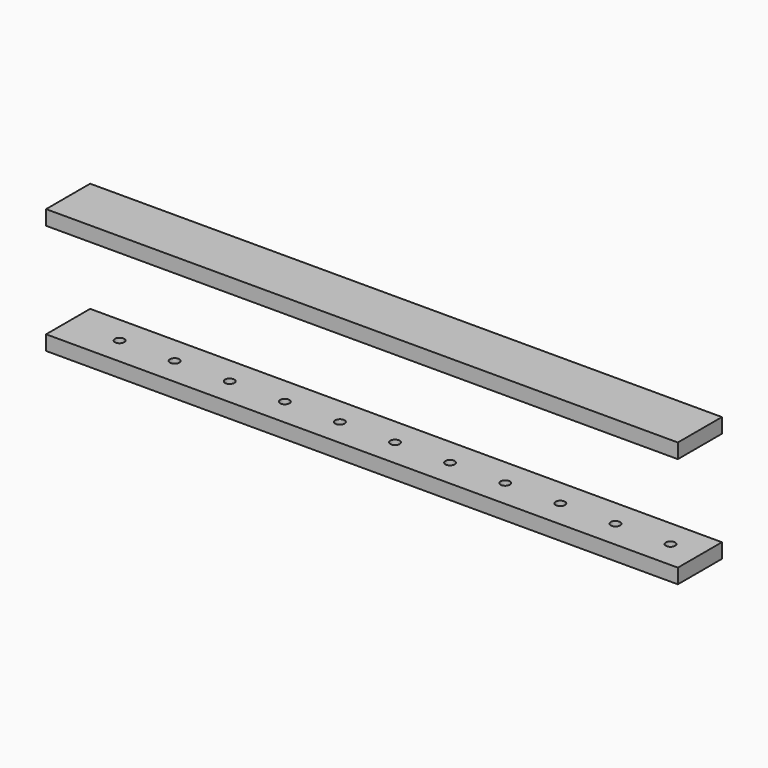
from build123d import *

# Parameters (mm, degrees)
F1_W     = 1720
F1_H     = 150
F1_R     = 12.7
F2_DEPTH = 40
F3_START = 260
F3_DEPTH = 40


with BuildPart() as f2:
    # F1 (on Top) → F2 (new body)
    with BuildSketch(Plane.XY):
        Rectangle(F1_W, F1_H)
        with Locations((-720, 0)):
            Circle(F1_R, mode=Mode.SUBTRACT)
        with Locations((-570, 0)):
            Circle(F1_R, mode=Mode.SUBTRACT)
        with Locations((-420, 0)):
            Circle(F1_R, mode=Mode.SUBTRACT)
        with Locations((-270, 0)):
            Circle(F1_R, mode=Mode.SUBTRACT)
        with Locations((-120, 0)):
            Circle(F1_R, mode=Mode.SUBTRACT)
        with Locations((30, 0)):
            Circle(F1_R, mode=Mode.SUBTRACT)
        with Locations((180, 0)):
            Circle(F1_R, mode=Mode.SUBTRACT)
        with Locations((330, 0)):
            Circle(F1_R, mode=Mode.SUBTRACT)
        with Locations((480, 0)):
            Circle(F1_R, mode=Mode.SUBTRACT)
        with Locations((630, 0)):
            Circle(F1_R, mode=Mode.SUBTRACT)
        with Locations((780, 0)):
            Circle(F1_R, mode=Mode.SUBTRACT)
    extrude(amount=-F2_DEPTH)


with BuildPart() as f3:
    # F1 (on Top) → F3 (new body)
    with BuildSketch(Plane.XY.offset(F3_START)):
        Rectangle(F1_W, F1_H)
        with Locations((-720, 0)):
            Circle(F1_R, mode=Mode.SUBTRACT)
        with Locations((-570, 0)):
            Circle(F1_R, mode=Mode.SUBTRACT)
        with Locations((-420, 0)):
            Circle(F1_R, mode=Mode.SUBTRACT)
        with Locations((-270, 0)):
            Circle(F1_R, mode=Mode.SUBTRACT)
        with Locations((-120, 0)):
            Circle(F1_R, mode=Mode.SUBTRACT)
        with Locations((30, 0)):
            Circle(F1_R, mode=Mode.SUBTRACT)
        with Locations((180, 0)):
            Circle(F1_R, mode=Mode.SUBTRACT)
        with Locations((330, 0)):
            Circle(F1_R, mode=Mode.SUBTRACT)
        with Locations((480, 0)):
            Circle(F1_R, mode=Mode.SUBTRACT)
        with Locations((630, 0)):
            Circle(F1_R, mode=Mode.SUBTRACT)
        with Locations((780, 0)):
            Circle(F1_R, mode=Mode.SUBTRACT)
        with Locations((-570, 0)):
            Circle(F1_R)
        with Locations((-420, 0)):
            Circle(F1_R)
        with Locations((-270, 0)):
            Circle(F1_R)
        with Locations((-120, 0)):
            Circle(F1_R)
        with Locations((30, 0)):
            Circle(F1_R)
        with Locations((180, 0)):
            Circle(F1_R)
        with Locations((-720, 0)):
            Circle(F1_R)
        with Locations((480, 0)):
            Circle(F1_R)
        with Locations((330, 0)):
            Circle(F1_R)
        with Locations((630, 0)):
            Circle(F1_R)
        with Locations((780, 0)):
            Circle(F1_R)
    extrude(amount=F3_DEPTH)


solid = Compound([f2.part, f3.part])
